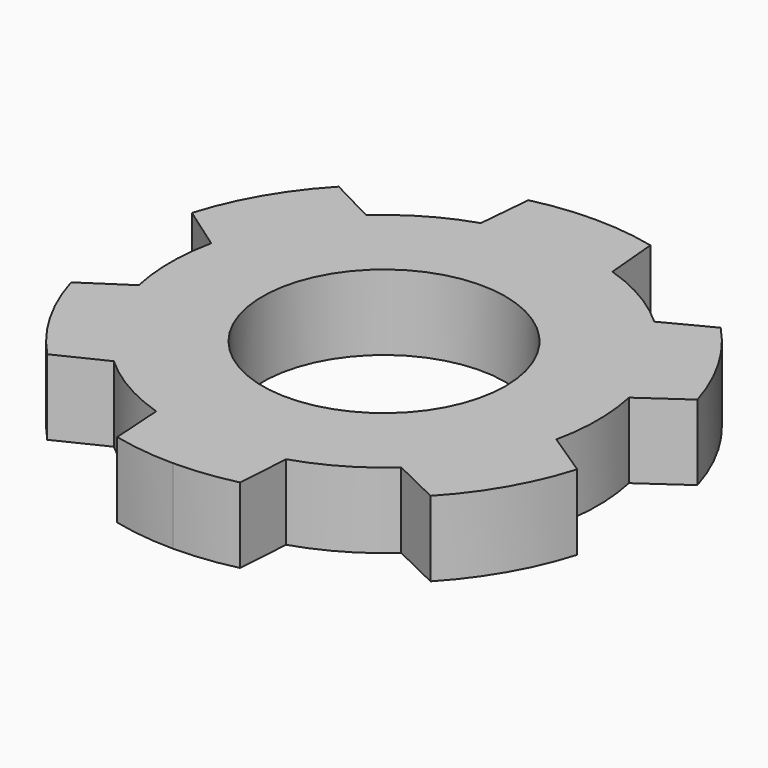
from build123d import *

# Parameters (mm, degrees)
F0_R     = 16.131165
F1_DEPTH = 10


with BuildPart() as f1:
    # F0 (on Top) → F1 (new body)
    with BuildSketch(Plane.XY):
        with BuildLine():
            Line((-8.10463, 5.872682), (-8.736449, -1.22302))
            ThreePointArc((-8.736449, -1.22302), (-14.257524, -3.686719), (-19.131316, -7.264179))
            Line((-19.131316, -7.264179), (-25.356277, -4.032384))
            ThreePointArc((-25.356277, -4.032384), (-30.292917, -10.604348), (-33.562853, -18.145478))
            Line((-33.562853, -18.145478), (-27.736137, -22.233463))
            ThreePointArc((-27.736137, -22.233463), (-28.374677, -28.249809), (-27.723189, -34.264767))
            Line((-27.723189, -34.264767), (-33.6046, -38.152917))
            ThreePointArc((-33.6046, -38.152917), (-30.362822, -45.713428), (-25.447791, -52.30986))
            Line((-25.447791, -52.30986), (-19.08433, -49.217167))
            ThreePointArc((-19.08433, -49.217167), (-14.176866, -52.798527), (-8.61949, -55.253097))
            Line((-8.61949, -55.253097), (-8.166772, -62.296396))
            ThreePointArc((-8.166772, -62.296396), (-4.11179, -63.019268), (0, -63.26134))
            ThreePointArc((0, -63.26134), (4.11179, -63.019268), (8.166772, -62.296396))
            Line((8.166772, -62.296396), (8.61949, -55.253097))
            ThreePointArc((8.61949, -55.253097), (14.176866, -52.798527), (19.08433, -49.217167))
            Line((19.08433, -49.217167), (25.447791, -52.30986))
            ThreePointArc((25.447791, -52.30986), (30.362822, -45.713428), (33.6046, -38.152917))
            Line((33.6046, -38.152917), (27.723189, -34.264767))
            ThreePointArc((27.723189, -34.264767), (28.374677, -28.249809), (27.736137, -22.233463))
            Line((27.736137, -22.233463), (33.562853, -18.145478))
            ThreePointArc((33.562853, -18.145478), (30.292917, -10.604348), (25.356277, -4.032384))
            Line((25.356277, -4.032384), (19.131316, -7.264179))
            ThreePointArc((19.131316, -7.264179), (14.257524, -3.686719), (8.736449, -1.22302))
            Line((8.736449, -1.22302), (8.10463, 5.872682))
            ThreePointArc((8.10463, 5.872682), (4.080065, 6.584455), (0, 6.822793))
            ThreePointArc((0, 6.822793), (-4.080065, 6.584455), (-8.10463, 5.872682))
        make_face()
        with Locations((0, -28.219273)):
            Circle(F0_R, mode=Mode.SUBTRACT)
    extrude(amount=F1_DEPTH)


solid = f1.part
